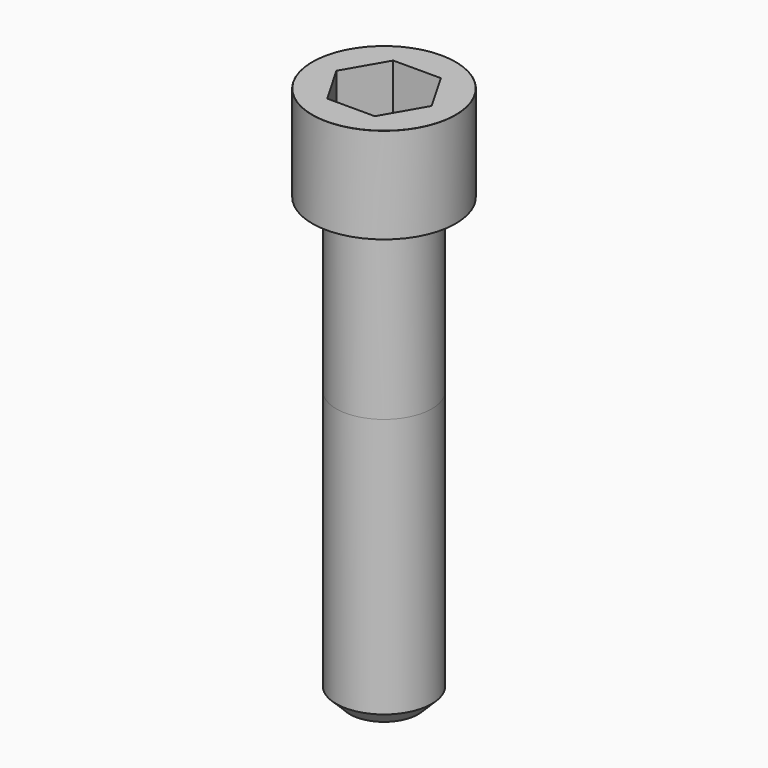
from build123d import *

# Parameters (mm, degrees)
POCKET_DEPTH = 12.07


with BuildPart() as part:
    # Sketch → Revolve (revolve)
    with BuildSketch(Plane.YZ):
        with BuildLine():
            Line((6.999, 0), (10.5, 0))
            Line((10.5, 0), (10.5, 13.97229))
            ThreePointArc((10.5, 13.97229), (10.491884, 13.991884), (10.47229, 14))
            Line((10.47229, 14), (0, 14))
            Line((0, -65), (0, 14))
            Line((5, -65), (0, -65))
            Line((7, -63), (5, -65))
            Line((7, -25), (7, -63))
            Line((6.999, 0), (7, -25))
        make_face()
    revolve(axis=Axis((0, 0, 0), (0, 0, 1)))

    # Sketch001 → Pocket (cut)
    with BuildSketch(Plane.XY.offset(14)):
        Polygon((6.968618, 0), (3.484309, 6.035), (-3.484309, 6.035), (-6.968618, 0), (-3.484309, -6.035), (3.484309, -6.035), align=None)
    extrude(amount=-POCKET_DEPTH, mode=Mode.SUBTRACT)


solid = part.part
